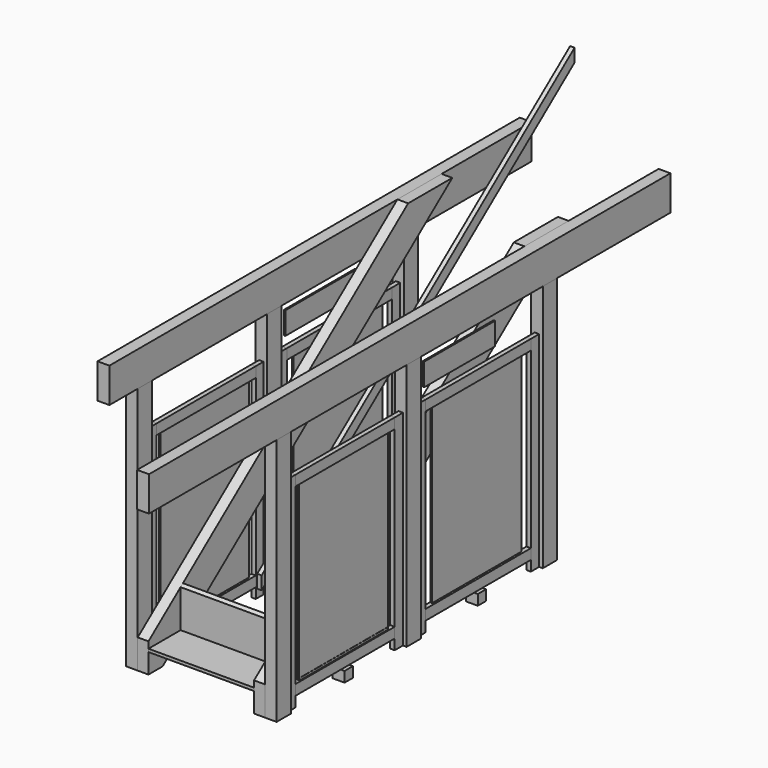
from build123d import *

# Parameters (mm, degrees)
F2_W           = 152.4
F2_H           = 2133.6
F3_DEPTH       = 101.6
F2_W_2         = 155.575
F5_W           = 152.4
F5_H           = 2133.6
F6_DEPTH       = 101.6
F5_W_2         = 146.05
F7_W           = 5603.875
F7_H           = 298.45
F8_DEPTH       = 101.6
F9_W           = 4537.075
F9_H           = 298.45
F10_DEPTH      = 101.6
F12_DEPTH      = 92.075
F15_W          = 1066.8
F15_H          = 88.9
F17_DEPTH      = 19.05
F15_W_2        = 1130.3
F18_W          = 958.85
F18_H          = 1485.9
F19_DEPTH      = 6.35
F18_W_2        = 952.5
F20_W          = 88.9
F20_H          = 1762.125
F21_DEPTH      = 19.05
F21_DEPTH_BACK = 19.05
F23_DEPTH      = 454.025
F23_DEPTH_BACK = 454.025
F26_DEPTH      = 19.05
F27_W          = 762
F27_H          = 193.675
F28_DEPTH      = 6.35
F28_DEPTH_BACK = 6.35
F29_W          = 88.9
F29_H          = 88.9
F31_DEPTH      = 101.6
F32_R          = 3.175
F33_DEPTH      = 152.4
F34_R          = 9.525
F35_DEPTH      = 25.4
F36_R          = 3.175
F37_DEPTH      = 127
F39_DEPTH      = 4.3688
F41_DEPTH      = 476.25
F41_DEPTH_BACK = 476.25
F43_DEPTH      = 476.25
F43_DEPTH_BACK = 476.25


with BuildPart() as f3:
    # F2 (on plane+point) → F3 (new body)
    with BuildSketch(Plane.YZ.offset(546.1)):
        with Locations((76.2, 1066.8)):
            Rectangle(F2_W, F2_H)
    extrude(amount=F3_DEPTH)


with BuildPart() as f3b:
    # F2 (on plane+point) → F3, piece 2 (new body)
    with BuildSketch(Plane.YZ.offset(546.1)):
        with Locations((1474.7875, 1066.8)):
            Rectangle(F2_W_2, F2_H)
    extrude(amount=F3_DEPTH)


with BuildPart() as f3c:
    # F2 (on plane+point) → F3, piece 3 (new body)
    with BuildSketch(Plane.YZ.offset(546.1)):
        with Locations((2936.875, 1066.8)):
            Rectangle(F2_W, F2_H)
    extrude(amount=F3_DEPTH)


with BuildPart() as f6:
    # F5 (on plane+point) → F6 (new body)
    with BuildSketch(Plane.YZ.offset(-546.1)):
        with Locations((1466.85, 1066.8)):
            Rectangle(F5_W, F5_H)
    extrude(amount=-F6_DEPTH)


with BuildPart() as f6b:
    # F5 (on plane+point) → F6, piece 2 (new body)
    with BuildSketch(Plane.YZ.offset(-546.1)):
        with Locations((2936.875, 1066.8)):
            Rectangle(F5_W_2, F5_H)
    extrude(amount=-F6_DEPTH)


with BuildPart() as f6c:
    # F5 (on plane+point) → F6, piece 3 (new body)
    with BuildSketch(Plane.YZ.offset(-546.1)):
        with Locations((76.2, 1066.8)):
            Rectangle(F5_W, F5_H)
    extrude(amount=-F6_DEPTH)


with BuildPart() as f8:
    # F7 (on plane+point) → F8 (new body, through all)
    with BuildSketch(Plane.YZ.offset(546.1)):
        with Locations((1430.3375, 2282.825)):
            Rectangle(F7_W, F7_H)
    extrude(amount=F8_DEPTH)


with BuildPart() as f10:
    # F9 (on plane+point) → F10 (new body, through all)
    with BuildSketch(Plane.YZ.offset(-546.1)):
        with Locations((1963.7375, 2282.825)):
            Rectangle(F9_W, F9_H)
    extrude(amount=-F10_DEPTH)


with BuildPart() as f12:
    # F11 (on plane+point) → F12 (new body)
    with BuildSketch(Plane.YZ.offset(546.1)):
        Polygon((0, 251.6122911431), (0, 0), (152.4, 0), (3265.2820465752, 2432.05), (2790.8329999697, 2432.05), align=None)
    extrude(amount=-F12_DEPTH)


with BuildPart() as f13_1:
    # F13: instance of F12
    add(f12.part.mirror(Plane.YZ))


with BuildPart() as f17:
    # F15 (on mid) → F17 (new body, symmetric)
    with BuildSketch(Plane.YZ.offset(596.9)):
        with Locations((774.7, 1717.675)):
            Rectangle(F15_W, F15_H)
    extrude(amount=F17_DEPTH, both=True)


with BuildPart() as f17b:
    # F15 (on mid) → F17, piece 2 (new body, symmetric)
    with BuildSketch(Plane.YZ.offset(596.9)):
        with Locations((774.7, 133.35)):
            Rectangle(F15_W, F15_H)
    extrude(amount=F17_DEPTH, both=True)


with BuildPart() as f17c:
    # F15 (on mid) → F17, piece 3 (new body, symmetric)
    with BuildSketch(Plane.YZ.offset(596.9)):
        with Locations((2206.625, 1717.675)):
            Rectangle(F15_W_2, F15_H)
    extrude(amount=F17_DEPTH, both=True)


with BuildPart() as f17d:
    # F15 (on mid) → F17, piece 4 (new body, symmetric)
    with BuildSketch(Plane.YZ.offset(596.9)):
        with Locations((2206.625, 133.35)):
            Rectangle(F15_W_2, F15_H)
    extrude(amount=F17_DEPTH, both=True)


with BuildPart() as f19:
    # F18 (on mid) → F19 (new body, symmetric)
    with BuildSketch(Plane.YZ.offset(596.9)):
        with Locations((2206.625, 925.5125)):
            Rectangle(F18_W, F18_H)
    extrude(amount=F19_DEPTH, both=True)


with BuildPart() as f19b:
    # F18 (on mid) → F19, piece 2 (new body, symmetric)
    with BuildSketch(Plane.YZ.offset(596.9)):
        with Locations((774.7, 925.5125)):
            Rectangle(F18_W_2, F18_H)
    extrude(amount=F19_DEPTH, both=True)


with BuildPart() as f21:
    # F20 (on mid) → F21 (new body, two sides)
    with BuildSketch(Plane.YZ.offset(596.9)) as f21_sk:
        with Locations((196.85, 881.0625)):
            Rectangle(F20_W, F20_H)
    extrude(amount=F21_DEPTH)
    extrude(f21_sk.sketch, amount=-F21_DEPTH_BACK)


with BuildPart() as f21b:
    # F20 (on mid) → F21, piece 2 (new body, two sides)
    with BuildSketch(Plane.YZ.offset(596.9)) as f21_2_sk:
        with Locations((1352.55, 881.0625)):
            Rectangle(F20_W, F20_H)
    extrude(amount=F21_DEPTH)
    extrude(f21_2_sk.sketch, amount=-F21_DEPTH_BACK)


with BuildPart() as f21c:
    # F20 (on mid) → F21, piece 3 (new body, two sides)
    with BuildSketch(Plane.YZ.offset(596.9)) as f21_3_sk:
        with Locations((1597.025, 881.0625)):
            Rectangle(F20_W, F20_H)
    extrude(amount=F21_DEPTH)
    extrude(f21_3_sk.sketch, amount=-F21_DEPTH_BACK)


with BuildPart() as f21d:
    # F20 (on mid) → F21, piece 4 (new body, two sides)
    with BuildSketch(Plane.YZ.offset(596.9)) as f21_4_sk:
        with Locations((2816.225, 881.0625)):
            Rectangle(F20_W, F20_H)
    extrude(amount=F21_DEPTH)
    extrude(f21_4_sk.sketch, amount=-F21_DEPTH_BACK)


with BuildPart() as f23:
    # F22 (on Right) → F23 (new body, two sides)
    with BuildSketch(Plane.YZ) as f23_sk:
        Polygon((0, 195.9391989232), (0, 170.5391989232), (370.6802206227, 170.5391989232), (370.6802206227, 541.2194195459), (345.2802206227, 521.3747646327), (345.2802206227, 195.9391989232), align=None)
    extrude(amount=F23_DEPTH)
    extrude(f23_sk.sketch, amount=-F23_DEPTH_BACK)


with BuildPart() as f26:
    # F25 (on mid) → F26 (new body, symmetric)
    with BuildSketch(Plane(origin=(500.0625, 0, 0), x_dir=(0, -1, 0), z_dir=(-1, 0, 0))):
        Polygon((0, 1066.8), (-3362.5994877906, 3693.9506475097), (-3362.5994877906, 3581.1349281897), (0, 953.98428068), align=None)
    extrude(amount=F26_DEPTH, both=True)


with BuildPart() as f28:
    # F27 (on mid) → F28 (new body, two sides)
    with BuildSketch(Plane.YZ.offset(596.9)) as f28_sk:
        with Locations((2022.475, 1947.8625)):
            Rectangle(F27_W, F27_H)
    extrude(amount=F28_DEPTH)
    extrude(f28_sk.sketch, amount=-F28_DEPTH_BACK)


with BuildPart() as f30_1:
    # F30: instance of F17
    add(f17.part.mirror(Plane.YZ))


with BuildPart() as f30_2:
    # F30: instance of F21
    add(f21.part.mirror(Plane.YZ))


with BuildPart() as f30_3:
    # F30: instance of F19b
    add(f19b.part.mirror(Plane.YZ))


with BuildPart() as f30_4:
    # F30: instance of F21b
    add(f21b.part.mirror(Plane.YZ))


with BuildPart() as f30_5:
    # F30: instance of F17b
    add(f17b.part.mirror(Plane.YZ))


with BuildPart() as f30_6:
    # F30: instance of F21c
    add(f21c.part.mirror(Plane.YZ))


with BuildPart() as f30_7:
    # F30: instance of F17c
    add(f17c.part.mirror(Plane.YZ))


with BuildPart() as f30_8:
    # F30: instance of F21d
    add(f21d.part.mirror(Plane.YZ))


with BuildPart() as f30_9:
    # F30: instance of F17d
    add(f17d.part.mirror(Plane.YZ))


with BuildPart() as f30_10:
    # F30: instance of F19
    add(f19.part.mirror(Plane.YZ))


with BuildPart() as f30_11:
    # F30: instance of F28
    add(f28.part.mirror(Plane.YZ))


with BuildPart() as f31:
    # F29 (on plane+point) → F31 (new body, through all)
    with BuildSketch(Plane.YZ.offset(546.1)):
        with Locations((774.7, 44.45)):
            Rectangle(F29_W, F29_H)
    extrude(amount=F31_DEPTH)


with BuildPart() as f31b:
    # F29 (on plane+point) → F31, piece 2 (new body, through all)
    with BuildSketch(Plane.YZ.offset(546.1)):
        with Locations((2206.625, 44.45)):
            Rectangle(F29_W, F29_H)
    extrude(amount=F31_DEPTH)


with BuildPart() as f21_1:
    add(f21.part)

    # F32 (on face) → F33 (cut)
    with BuildSketch(Plane(origin=(0, 241.3, 0), x_dir=(-1, 0, 0), z_dir=(0, 1, 0))):
        with Locations((-596.9, 1321.59375)):
            Circle(F32_R)
        with Locations((-596.9, 881.0625)):
            Circle(F32_R)
        with Locations((-596.9, 440.53125)):
            Circle(F32_R)
    extrude(amount=-F33_DEPTH, mode=Mode.SUBTRACT)

    # F34 (on face) → F35 (cut)
    with BuildSketch(Plane(origin=(0, 241.3, 0), x_dir=(-1, 0, 0), z_dir=(0, 1, 0))):
        with Locations((-596.9, 1321.59375)):
            Circle(F34_R)
        with Locations((-596.9, 881.0625)):
            Circle(F34_R)
        with Locations((-596.9, 440.53125)):
            Circle(F34_R)
    extrude(amount=-F35_DEPTH, mode=Mode.SUBTRACT)


with BuildPart() as f37:
    # F36 (on face) → F37 (new body)
    with BuildSketch(Plane.XZ.offset(-152.4)):
        with Locations((596.9, 1321.59375)):
            Circle(F36_R)
    extrude(amount=-F37_DEPTH)

    # F38 (on face) → F39 (join)
    with BuildSketch(Plane(origin=(0, 279.4, 0), x_dir=(-1, 0, 0), z_dir=(0, 1, 0))):
        Polygon((-593.6920975668, 1327.15), (-600.1079024332, 1327.15), (-603.3158048664, 1321.59375), (-600.1079024332, 1316.0375), (-593.6920975668, 1316.0375), (-590.4841951336, 1321.59375), align=None)
    extrude(amount=-F39_DEPTH)


with BuildPart() as f41:
    # F40 (on plane+point) → F41 (new body, two sides)
    with BuildSketch(Plane.XZ.offset(-774.7)) as f41_sk:
        Polygon((587.375, 177.8), (606.425, 177.8), (606.425, 196.85), (604.901, 196.85), (604.901, 179.324), (588.899, 179.324), (588.899, 196.85), (587.375, 196.85), align=None)
    extrude(amount=-F41_DEPTH)
    extrude(f41_sk.sketch, amount=F41_DEPTH_BACK)


with BuildPart() as f43:
    # F42 (on plane+point) → F43 (new body, two sides)
    with BuildSketch(Plane.XZ.offset(-774.7)) as f43_sk:
        Polygon((604.901, 179.324), (604.901, 195.199), (603.25, 195.199), (603.25, 182.499), (590.55, 182.499), (590.55, 195.199), (588.899, 195.199), (588.899, 179.324), align=None)
    extrude(amount=F43_DEPTH)
    extrude(f43_sk.sketch, amount=-F43_DEPTH_BACK)


solid = Compound([f3.part, f3b.part, f3c.part, f6.part, f6b.part, f6c.part, f8.part, f10.part, f12.part, f13_1.part, f17.part, f17b.part, f17c.part, f17d.part, f19.part, f19b.part, f21b.part, f21c.part, f21d.part, f23.part, f26.part, f28.part, f30_1.part, f30_2.part, f30_3.part, f30_4.part, f30_5.part, f30_6.part, f30_7.part, f30_8.part, f30_9.part, f30_10.part, f30_11.part, f31.part, f31b.part, f21_1.part, f37.part, f41.part, f43.part])
